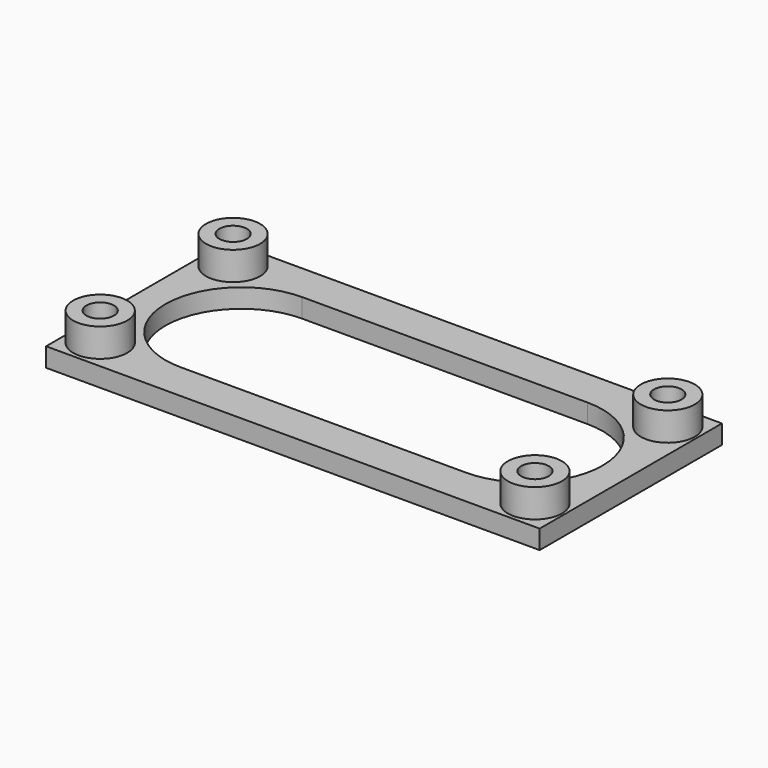
from build123d import *

# Parameters (mm, degrees)
SKETCH_W        = 52
SKETCH_H        = 24
PAD_DEPTH       = 2
SKETCH001_R     = 1.45
POCKET_DEPTH    = 2.001
SKETCH002_R     = 2.85
SKETCH002_R_2   = 1.45
PAD001_DEPTH    = 3
POCKET001_DEPTH = 2.001


with BuildPart() as part:
    # Sketch → Pad (new body)
    with BuildSketch(Plane.XY):
        Rectangle(SKETCH_W, SKETCH_H)
    extrude(amount=PAD_DEPTH)

    # Sketch001 (on Face6 of Pad) → Pocket (cut, through all)
    with BuildSketch(Plane.XY.offset(2)):
        with Locations((-22.9, 8.75)):
            Circle(SKETCH001_R)
        with Locations((22.9, 8.75)):
            Circle(SKETCH001_R)
        with Locations((22.9, -8.75)):
            Circle(SKETCH001_R)
        with Locations((-22.9, -8.75)):
            Circle(SKETCH001_R)
    extrude(amount=-POCKET_DEPTH, mode=Mode.SUBTRACT)

    # Sketch002 (on Face5 of Pocket) → Pad001 (join)
    with BuildSketch(Plane.XY.offset(2)):
        with Locations((-22.9, 8.75)):
            Circle(SKETCH002_R)
        with Locations((-22.9, 8.75)):
            Circle(SKETCH002_R_2, mode=Mode.SUBTRACT)
        with Locations((22.9, 8.75)):
            Circle(SKETCH002_R)
        with Locations((22.9, 8.75)):
            Circle(SKETCH002_R_2, mode=Mode.SUBTRACT)
        with Locations((22.9, -8.75)):
            Circle(SKETCH002_R)
        with Locations((22.9, -8.75)):
            Circle(SKETCH002_R_2, mode=Mode.SUBTRACT)
        with Locations((-22.9, -8.75)):
            Circle(SKETCH002_R)
        with Locations((-22.9, -8.75)):
            Circle(SKETCH002_R_2, mode=Mode.SUBTRACT)
    extrude(amount=PAD001_DEPTH)

    # Sketch003 (on Face5 of Pad001) → Pocket001 (cut, through all)
    with BuildSketch(Plane.XY.offset(2)):
        with BuildLine():
            ThreePointArc((-15.027266, 8), (-23.027266, 0), (-15.027266, -8))
            Line((-15.027266, -8), (15.027266, -8))
            ThreePointArc((15.027266, -8), (23.027266, 0), (15.027266, 8))
            Line((15.027266, 8), (-15.027266, 8))
        make_face()
    extrude(amount=-POCKET001_DEPTH, mode=Mode.SUBTRACT)


solid = part.part
